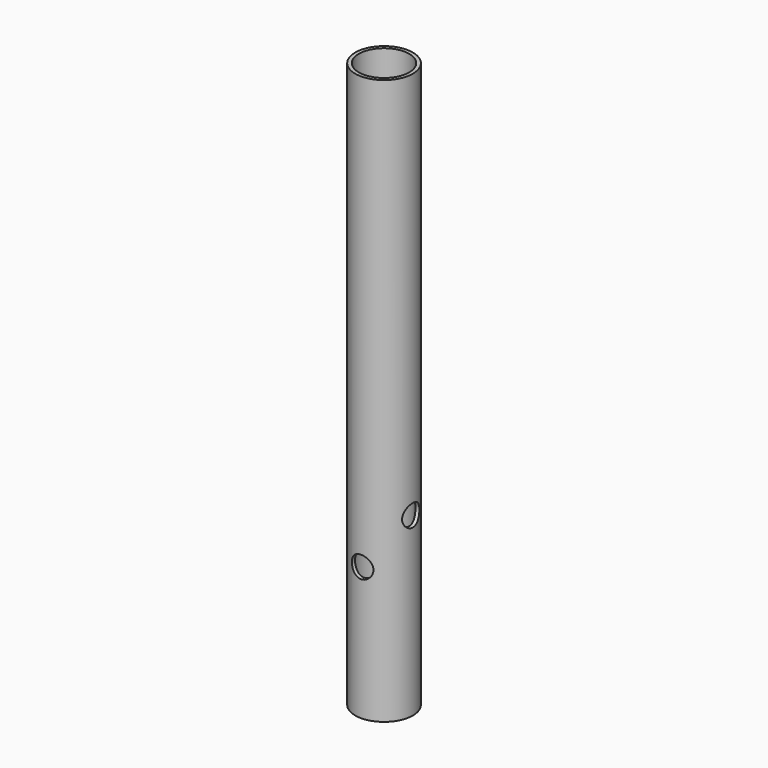
from build123d import *

# Parameters (mm, degrees)
F0_R     = 8
F0_R_2   = 7
F1_DEPTH = 157
F2_R     = 3
F3_DEPTH = 25
F4_R     = 3
F5_DEPTH = 12.5


with BuildPart() as f1:
    # F0 (on Top) → F1 (new body)
    with BuildSketch(Plane.XY):
        Circle(F0_R)
        Circle(F0_R_2, mode=Mode.SUBTRACT)
    extrude(amount=F1_DEPTH)

    # F2 (on Front) → F3 (cut, symmetric)
    with BuildSketch(Plane.XZ):
        with Locations((0, 37)):
            Circle(F2_R)
    extrude(amount=F3_DEPTH, both=True, mode=Mode.SUBTRACT)

    # F4 (on Right) → F5 (cut, symmetric)
    with BuildSketch(Plane.YZ):
        with Locations((0, 49)):
            Circle(F4_R)
    extrude(amount=F5_DEPTH, both=True, mode=Mode.SUBTRACT)


solid = f1.part
